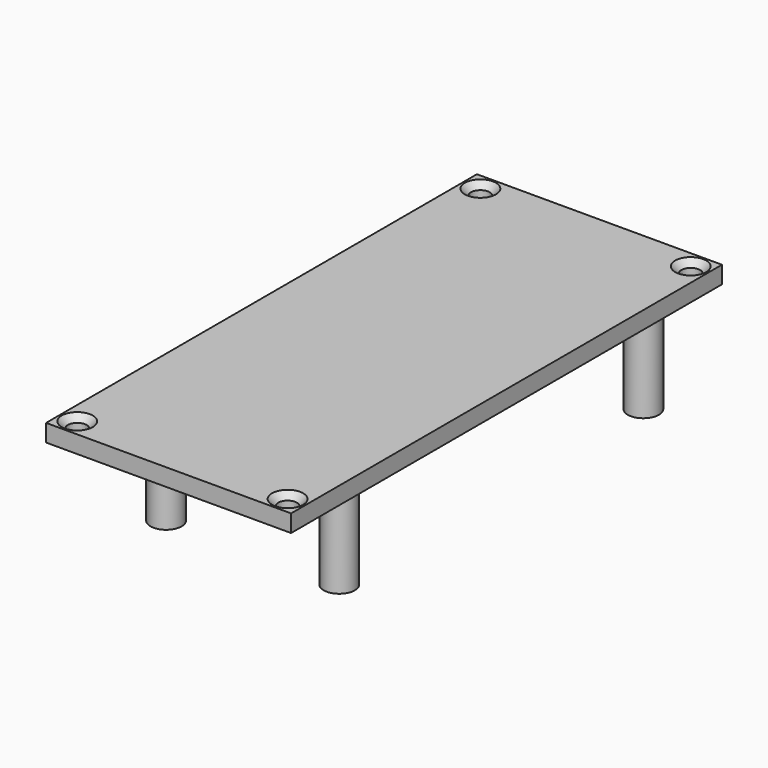
from build123d import *

# Parameters (mm, degrees)
SKETCH009_W      = 35.3624
SKETCH009_H      = 77.7328
PAD004_DEPTH     = 2.5
SKETCH010_R      = 2.25
PAD005_DEPTH     = 14.4
HOLE_D           = 2.7
HOLE_CSINK_D     = 4.5
HOLE_CSINK_ANGLE = 90


with BuildPart() as part:
    # Sketch009 (on CopyDatumPlane) → Pad004 (new body)
    with BuildSketch(Plane.XY.offset(16)):
        with Locations((14.6812, 25.8664)):
            Rectangle(SKETCH009_W, SKETCH009_H)
    extrude(amount=PAD004_DEPTH)

    # Sketch010 (on CopyDatumPlane) → Pad005 (join)
    with BuildSketch(Plane.XY.offset(16)):
        with Locations((2.1844, 57.038)):
            Circle(SKETCH010_R)
        with Locations((27.178, 57.038)):
            Circle(SKETCH010_R)
        with Locations((27.178, 2.174)):
            Circle(SKETCH010_R)
        with Locations((2.1844, 2.174)):
            Circle(SKETCH010_R)
    extrude(amount=-PAD005_DEPTH)

    # Hole (through all)
    with Locations(Plane.XY.offset(18.5)):
        with Locations((-0.5, 62.2328), (29.8624, 62.2328), (29.8624, -10.5), (-0.5, -10.5)):
            CounterSinkHole(HOLE_D / 2, HOLE_CSINK_D / 2, counter_sink_angle=HOLE_CSINK_ANGLE)


solid = part.part
